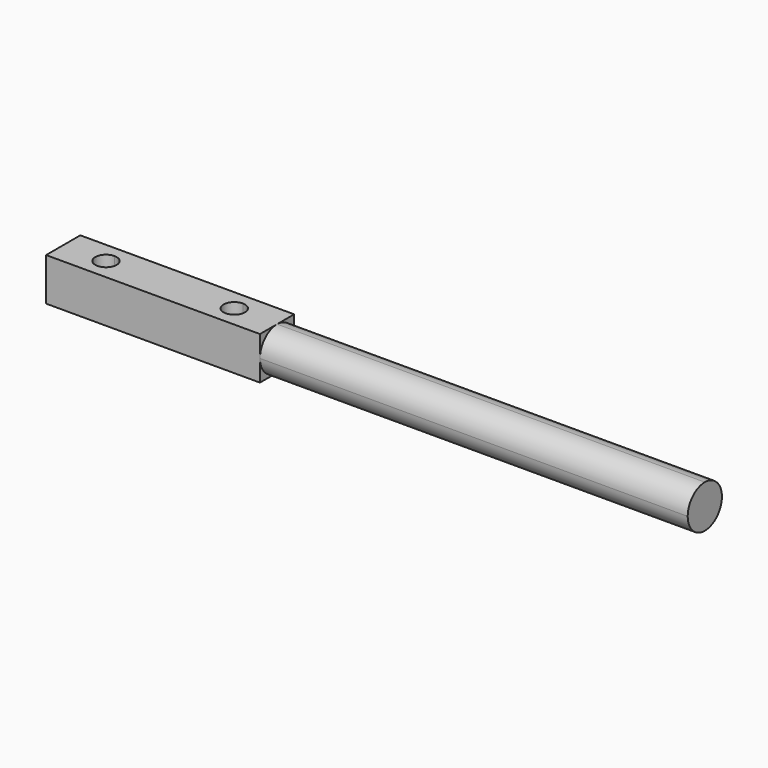
from build123d import *

# Parameters (mm, degrees)
F1_DEPTH = 6.35
F3_DEPTH = 127


with BuildPart() as f1:
    # F0 (on Top) → F1 (new body, symmetric)
    with BuildSketch(Plane.XY):
        with BuildLine():
            Line((-12.7, 3.175), (-12.7, 6.35))
            Line((-12.7, 6.35), (-50.8, 6.35))
            Line((-50.8, 6.35), (-63.5, 6.35))
            Line((-63.5, 6.35), (-63.5, -6.35))
            Line((-63.5, -6.35), (-12.7, -6.35))
            Line((-12.7, -6.35), (-12.7, -3.175))
            ThreePointArc((-12.7, -3.175), (-15.875, 0), (-12.7, 3.175))
        make_face()
        with BuildLine():
            ThreePointArc((-47.625, 0), (-53.0450640303, -2.2450640303), (-50.8, 3.175))
            ThreePointArc((-50.8, 3.175), (-48.5549359697, 2.2450640303), (-47.625, 0))
        make_face(mode=Mode.SUBTRACT)
        with BuildLine():
            Line((0, -6.35), (0, 0))
            Line((0, 0), (0, 6.35))
            Line((0, 6.35), (-12.7, 6.35))
            Line((-12.7, 6.35), (-12.7, 3.175))
            ThreePointArc((-12.7, 3.175), (-10.4549359697, 2.2450640303), (-9.525, 0))
            ThreePointArc((-9.525, 0), (-10.4549359697, -2.2450640303), (-12.7, -3.175))
            Line((-12.7, -3.175), (-12.7, -6.35))
            Line((-12.7, -6.35), (0, -6.35))
        make_face()
    extrude(amount=F1_DEPTH, both=True)

    # F2 (on face) → F3 (join)
    with BuildSketch(Plane.YZ):
        with BuildLine():
            ThreePointArc((0, -6.35), (4.4901280605, -4.4901280605), (6.35, 0))
            ThreePointArc((6.35, 0), (4.4901280605, 4.4901280605), (0, 6.35))
            ThreePointArc((0, 6.35), (-4.4901280605, 4.4901280605), (-6.35, 0))
            ThreePointArc((-6.35, 0), (-4.4901280605, -4.4901280605), (0, -6.35))
        make_face()
    extrude(amount=F3_DEPTH)


solid = f1.part
